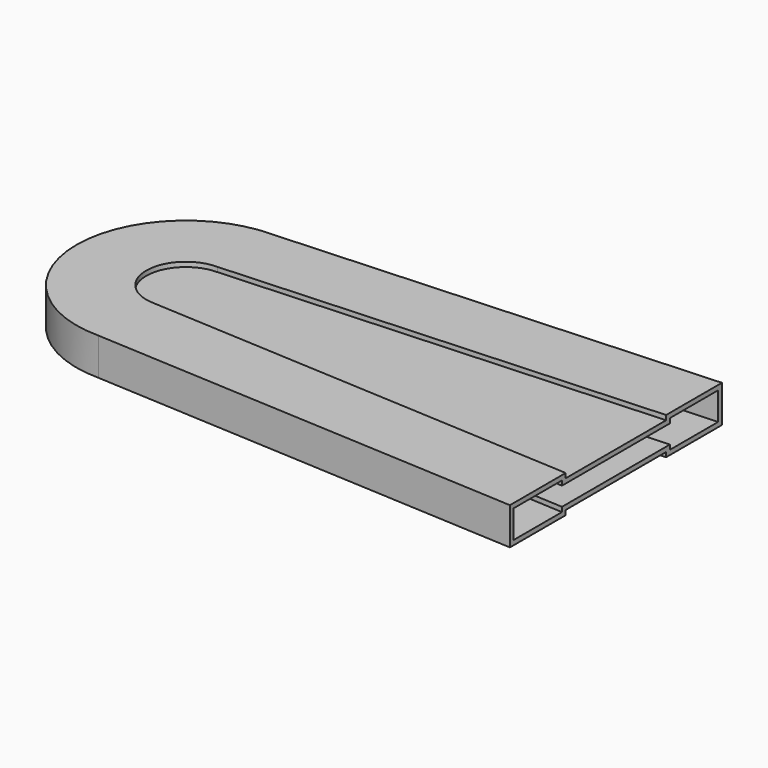
from build123d import *

# Parameters (mm, degrees)
REVOLUTION_ANGLE = -180
GROOVE_ANGLE     = -180


with BuildPart() as part:
    # Sketch → Revolution (revolve)
    with BuildSketch(Plane.YZ):
        Polygon((0, 3), (-8.5, 3), (-8.5, 4), (-23.5, 4), (-23.5, -4), (-8.5, -4), (-8.5, -3), (0, -3), align=None)
    revolve(axis=Axis((0, 0, 0), (0, 0, 1)), revolution_arc=REVOLUTION_ANGLE)

    # Import → Groove (revolve, cut)
    with BuildSketch(Plane(origin=(0, -11.25, 0), x_dir=(0, -1, 0), z_dir=(1, 0, 0))):
        Polygon((-11.25, -2), (-1.75, -2), (-1.75, -3), (11.25, -3), (11.25, 3), (-1.75, 3), (-1.75, 2), (-11.25, 2), align=None)
    revolve(axis=Axis((0, 0, 0), (0, 0, 1)), revolution_arc=GROOVE_ANGLE, mode=Mode.SUBTRACT)

    # Sketch002 (on Face3 of Groove) → AdditiveLoft section 0
    with BuildSketch(Plane.YZ):
        Polygon((-23.5, 4), (-8.5, 4), (-8.5, 3), (8.5, 3), (8.5, 4), (23.5, 4), (23.5, -4), (8.5, -4), (8.5, -3), (-8.5, -3), (-8.5, -4), (-23.5, -4), align=None)
    # Import001 → AdditiveLoft section 1
    with BuildSketch(Plane(origin=(92.5, 0, 0), x_dir=(0, 1, 0), z_dir=(-1, 0, 0))):
        Polygon((-28.5, -4), (-13.5, -4), (-13.5, -3), (13.5, -3), (13.5, -4), (28.5, -4), (28.5, 4), (13.5, 4), (13.5, 3), (-13.5, 3), (-13.5, 4), (-28.5, 4), align=None)
    loft()

    # Import002 → SubtractiveLoft section 0
    with BuildSketch(Plane(origin=(0, 0, 0), x_dir=(0, -1, 0), z_dir=(1, 0, 0))):
        Polygon((22.5, -3), (9.5, -3), (9.5, -2), (-9.5, -2), (-9.5, -3), (-22.5, -3), (-22.5, 3), (-9.5, 3), (-9.5, 2), (9.5, 2), (9.5, 3), (22.5, 3), align=None)
    # Import003 → SubtractiveLoft section 1
    with BuildSketch(Plane(origin=(92.5, 0, 0), x_dir=(0, 1, 0), z_dir=(-1, 0, 0))):
        Polygon((-27.5, -3), (-14.5, -3), (-14.5, -2), (14.5, -2), (14.5, -3), (27.5, -3), (27.5, 3), (14.5, 3), (14.5, 2), (-14.5, 2), (-14.5, 3), (-27.5, 3), align=None)
    loft(mode=Mode.SUBTRACT)


solid = part.part
